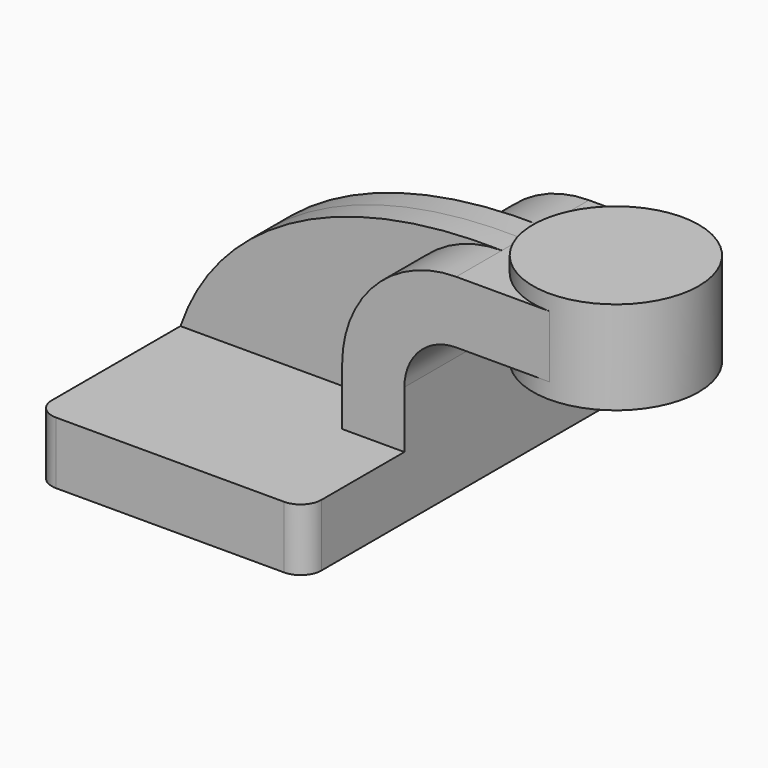
from build123d import *

# Parameters (mm, degrees)
F1_DEPTH = 63.5
F0_W     = 25.4
F0_H     = 19.05
F2_DEPTH = 25.4
F3_DEPTH = 7.9375
F5_R     = 6.35


with BuildPart() as f1:
    # F0 (on Front) → F1 (new body, symmetric)
    with BuildSketch(Plane.XZ):
        Polygon((-41.275, -9.525), (41.275, -9.525), (41.275, 9.525), (22.225, 9.525), (-41.275, 9.525), align=None)
    extrude(amount=F1_DEPTH, both=True)

    # F0 (on Front) → F2 (join, symmetric)
    with BuildSketch(Plane.XZ):
        with BuildLine():
            Line((22.225, 9.525), (41.275, 9.525))
            Line((41.275, 9.525), (41.275, 27.0002))
            ThreePointArc((41.275, 27.0002), (45.9246798487, 38.2255201513), (57.15, 42.8752))
            Line((57.15, 42.8752), (60.325, 42.8752))
            Line((60.325, 42.8752), (60.325, 61.9252))
            Line((60.325, 61.9252), (57.15, 61.9252))
            ThreePointArc((57.15, 61.9252), (32.4542956671, 51.6959043329), (22.225, 27.0002))
            Line((22.225, 27.0002), (22.225, 9.525))
        make_face()
        with Locations((73.025, 52.4002)):
            Rectangle(F0_W, F0_H)
    extrude(amount=F2_DEPTH, both=True)

    # F0 (on Front) → F3 (join, symmetric)
    with BuildSketch(Plane.XZ):
        with BuildLine():
            add(Edge.make_bspline(
                [(-41.275, 9.525), (-29.6587889175, 43.5144016354), (7.8189946393, 63.1362712857), (57.15, 61.9252)],
                knots=[0, 0, 0, 0, 111.5045361635, 111.5045361635, 111.5045361635, 111.5045361635], degree=3))
            Line((-41.275, 9.525), (22.225, 9.525))
            Line((22.225, 9.525), (22.225, 27.0002))
            ThreePointArc((22.225, 27.0002), (32.4542956671, 51.6959043329), (57.15, 61.9252))
        make_face()
    extrude(amount=F3_DEPTH, both=True)

    # F5
    f5_edges = [f1.edges().sort_by_distance(p)[0] for p in [
        (41.275, -63.5, 0),
        (-41.275, -63.5, 0),
        (-41.275, 63.5, 0),
        (41.275, 63.5, 0),
    ]]
    fillet(f5_edges, radius=F5_R)


with BuildPart() as f4:
    # F0 (on Front) → F4 (revolve)
    with BuildSketch(Plane.XZ):
        Polygon((85.725, 66.675), (85.725, 61.9252), (85.725, 42.8752), (85.725, 38.1), (111.125, 38.1), (111.125, 66.675), align=None)
    revolve(axis=Axis((85.725, 0, 52.3875), (0, 0, 1)))


solid = Compound([f1.part, f4.part])
